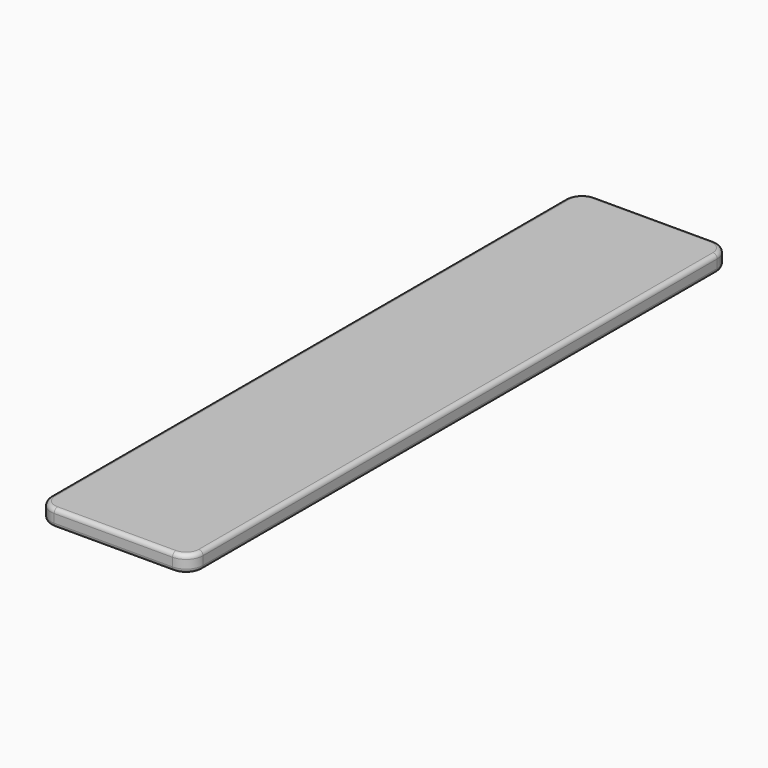
from build123d import *

# Parameters (mm, degrees)
PAD_DEPTH    = 2
FILLET_R     = 0.5
SKETCH001_R  = 2
PAD001_DEPTH = 2


with BuildPart() as part:
    # Sketch → Pad (new body)
    with BuildSketch(Plane.XY):
        with BuildLine():
            ThreePointArc((0, 2), (0.585786, 0.585786), (2, 0))
            Line((16, 0), (2, 0))
            ThreePointArc((16, 0), (17.414214, 0.585786), (18, 2))
            Line((18, 78), (18, 2))
            ThreePointArc((18, 78), (17.414214, 79.414214), (16, 80))
            Line((2, 80), (16, 80))
            ThreePointArc((2, 80), (0.585786, 79.414214), (0, 78))
            Line((0, 2), (0, 78))
        make_face()
    extrude(amount=PAD_DEPTH)

    # Fillet
    fillet_edges = [part.edges().sort_by_distance(p)[0] for p in [
        (18, 78, 1),
        (18, 2, 1),
        (18, 40, 0),
        (18, 40, 2),
    ]]
    fillet(fillet_edges, radius=FILLET_R)

    # Sketch001 → Pad001 (join)
    with BuildSketch(Plane.YZ):
        with BuildLine():
            Line((78, 0), (64.143594, 0))
            Line((64.143594, 0), (67.607695, -6))
            ThreePointArc((67.607695, -6), (71.071797, -8), (74.535898, -6))
            Line((74.535898, -6), (78, 0))
        make_face()
        with Locations((71.071797, -4)):
            Circle(SKETCH001_R, mode=Mode.SUBTRACT)
    extrude(amount=PAD001_DEPTH)


solid = part.part
